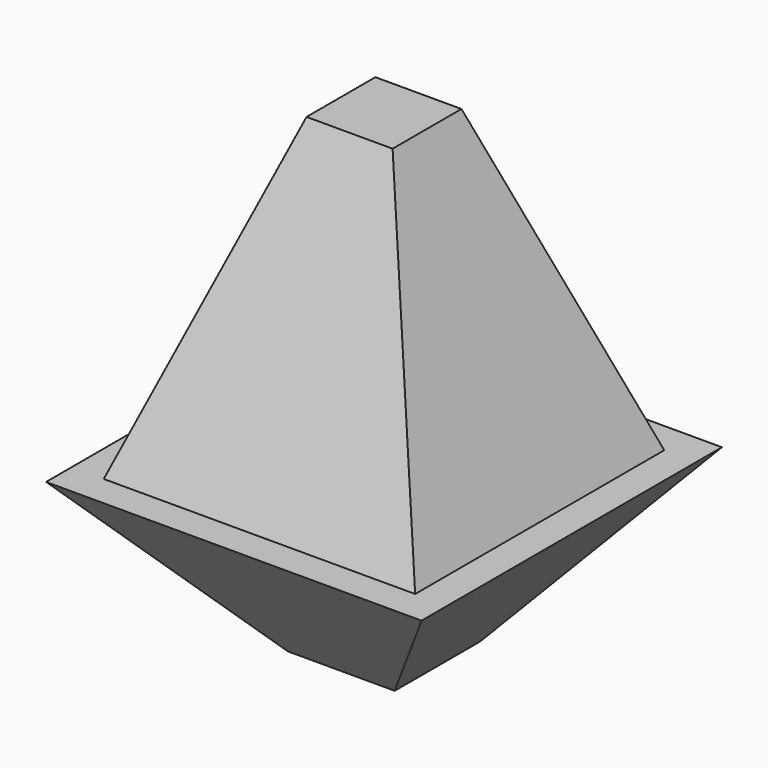
from build123d import *

# Parameters (mm, degrees)
F0_W     = 25.4
F0_H     = 25.4
F1_DEPTH = 38.1
F1_TAPER = -40
F2_W     = 74.0993918957
F2_H     = 74.0993918957
F3_DEPTH = 73.66
F3_TAPER = 20


with BuildPart() as f1:
    # F0 (on Top) → F1 (new body)
    with BuildSketch(Plane.XY):
        with Locations((0, -12.7)):
            Rectangle(F0_W, F0_H)
    extrude(amount=F1_DEPTH, taper=F1_TAPER)

    # F2 (on face) → F3 (join)
    with BuildSketch(Plane.XY.offset(38.1)):
        with Locations((0, -12.7)):
            Rectangle(F2_W, F2_H)
    extrude(amount=F3_DEPTH, taper=F3_TAPER)


solid = f1.part
